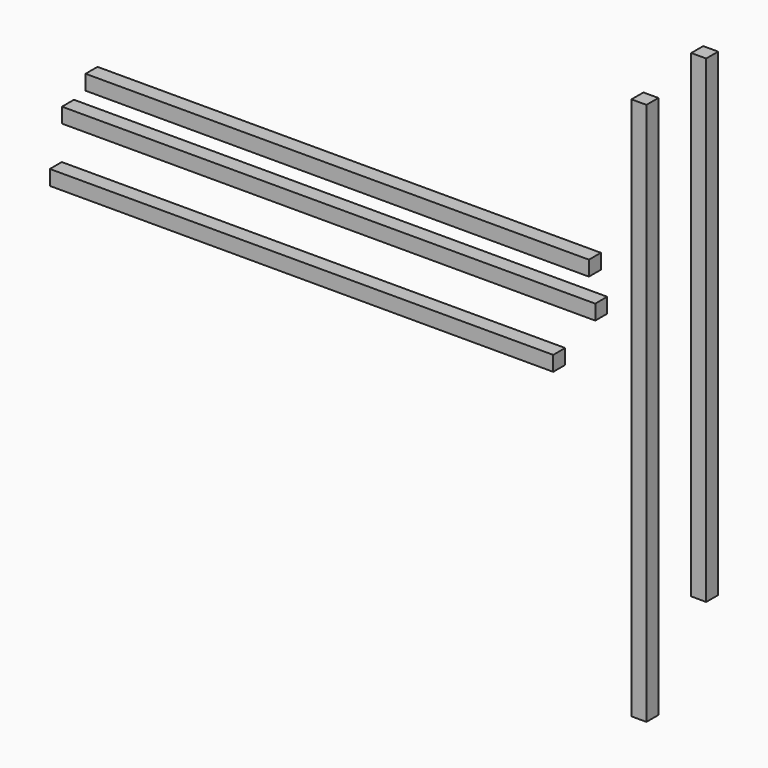
from build123d import *

# Parameters (mm, degrees)
F0_W     = 1282.7
F0_H     = 38.1
F3_DEPTH = 38.1
F1_W     = 1358.9
F1_H     = 38.1
F4_DEPTH = 38.1
F2_W     = 38.1
F2_H     = 1384.3
F5_DEPTH = 38.1
F6_W     = 1282.7
F6_H     = 38.1
F8_DEPTH = 38.1
F7_W     = 38.1
F7_H     = 1219.2
F9_DEPTH = 38.1


with BuildPart() as f3:
    # F0 (on Front) → F3 (new body)
    with BuildSketch(Plane.XZ):
        with Locations((-170.252413, 93.3431)):
            Rectangle(F0_W, F0_H)
    extrude(amount=F3_DEPTH)


with BuildPart() as f4:
    # F1 (on Front) → F4 (new body)
    with BuildSketch(Plane.XZ):
        with Locations((-192.198903, 0)):
            Rectangle(F1_W, F1_H)
    extrude(amount=F4_DEPTH)


with BuildPart() as f5:
    # F2 (on Front) → F5 (new body)
    with BuildSketch(Plane.XZ):
        with Locations((598.610921, -184.76284)):
            Rectangle(F2_W, F2_H)
    extrude(amount=F5_DEPTH)


with BuildPart() as f8:
    # F6 (on Front) → F8 (new body)
    with BuildSketch(Plane.XZ):
        with Locations((-261.276394, -149.82342)):
            Rectangle(F6_W, F6_H)
    extrude(amount=F8_DEPTH)


with BuildPart() as f9:
    # F7 (on Front) → F9 (new body)
    with BuildSketch(Plane.XZ):
        with Locations((750.920475, 51.292985)):
            Rectangle(F7_W, F7_H)
    extrude(amount=F9_DEPTH)


solid = Compound([f3.part, f4.part, f5.part, f8.part, f9.part])
